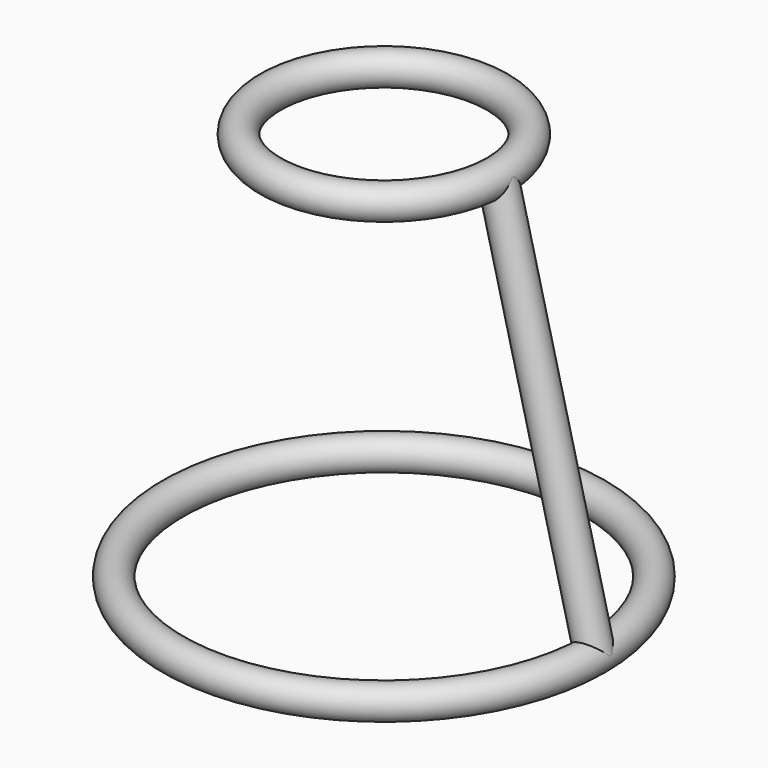
from build123d import *

# Parameters (mm, degrees)
F0_R = 3.175


with BuildPart() as f1:
    # F0 (on Front) → F1 (revolve)
    with BuildSketch(Plane.XZ):
        with Locations((22.225, 76.2)):
            Circle(F0_R)
    revolve(axis=Axis((0, 0, 32.0470281877), (0, 0, -1)))


with BuildPart() as f1b:
    # F0 (on Front) → F1, piece 2 (revolve)
    with BuildSketch(Plane.XZ):
        with Locations((41.275, 0)):
            Circle(F0_R)
    revolve(axis=Axis((0, 0, 32.0470281877), (0, 0, -1)))


with BuildPart() as f3:
    # F2 (on Front) → F3 (revolve)
    with BuildSketch(Plane.XZ):
        Polygon((22.225, 76.2), (41.275, 0), (44.355202438, 0.7700506095), (25.305202438, 76.9700506095), align=None)
    revolve(axis=Axis((31.75, 0, 38.1), (-0.242535625, 0, 0.9701425001)))


solid = Compound([f1.part, f1b.part, f3.part])
